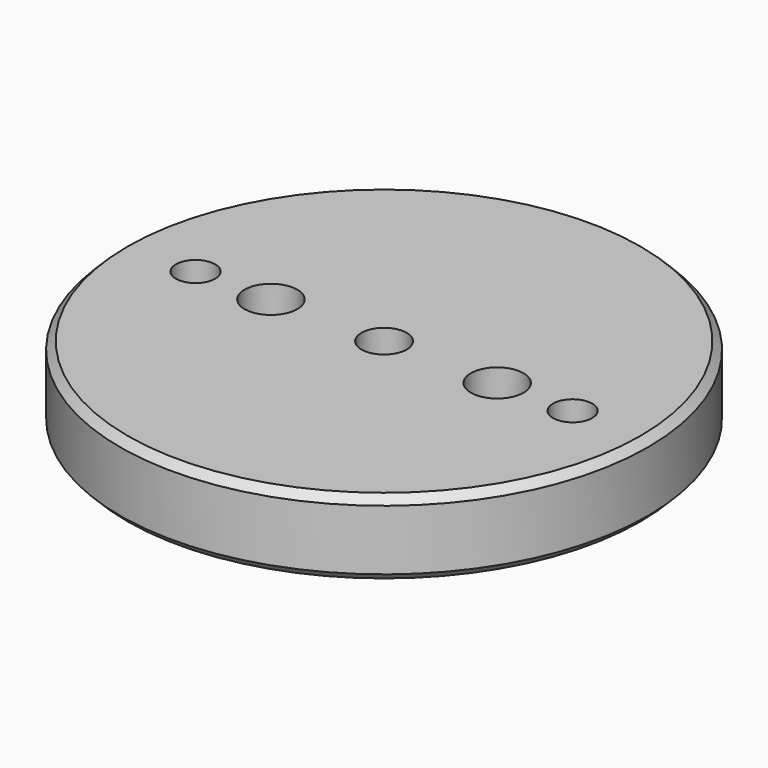
from build123d import *

# Parameters (mm, degrees)
CYLINDER001_R        = 3.5
CYLINDER001_DEPTH    = 10
CYLINDER002_R        = 7
CYLINDER002_DEPTH    = 5
CYLINDER003_R        = 3.5
CYLINDER003_DEPTH    = 10
CYLINDER004_R        = 7
CYLINDER004_DEPTH    = 5
CYLINDER005_R        = 2.6
CYLINDER005_DEPTH    = 10
CYLINDER006_R        = 2.6
CYLINDER006_DEPTH    = 10
CYLINDER_R           = 3
CYLINDER_DEPTH       = 10
CYLINDER001027_R     = 35
CYLINDER001027_DEPTH = 10
CHAMFER004_SIZE      = 1


with BuildPart() as cylinder001:
    # cylinder001 → cylinder001 (new body)
    with BuildSketch(Plane(origin=(15, 0, 0), x_dir=(1, 0, 0), z_dir=(0, 0, 1))):
        Circle(CYLINDER001_R)
    extrude(amount=CYLINDER001_DEPTH)


with BuildPart() as cylinder002:
    # cylinder002 → cylinder002 (new body)
    with BuildSketch(Plane(origin=(15, 0, 0), x_dir=(1, 0, 0), z_dir=(0, 0, 1))):
        Circle(CYLINDER002_R)
    extrude(amount=CYLINDER002_DEPTH)


with BuildPart() as cylinder003:
    # cylinder003 → cylinder003 (new body)
    with BuildSketch(Plane(origin=(-15, 0, 0), x_dir=(1, 0, 0), z_dir=(0, 0, 1))):
        Circle(CYLINDER003_R)
    extrude(amount=CYLINDER003_DEPTH)


with BuildPart() as cylinder004:
    # cylinder004 → cylinder004 (new body)
    with BuildSketch(Plane(origin=(-15, 0, 0), x_dir=(1, 0, 0), z_dir=(0, 0, 1))):
        Circle(CYLINDER004_R)
    extrude(amount=CYLINDER004_DEPTH)


with BuildPart() as cylinder005:
    # cylinder005 → cylinder005 (new body)
    with BuildSketch(Plane(origin=(-25, 0, 0), x_dir=(1, 0, 0), z_dir=(0, 0, 1))):
        Circle(CYLINDER005_R)
    extrude(amount=CYLINDER005_DEPTH)


with BuildPart() as cylinder006:
    # cylinder006 → cylinder006 (new body)
    with BuildSketch(Plane(origin=(25, 0, 0), x_dir=(1, 0, 0), z_dir=(0, 0, 1))):
        Circle(CYLINDER006_R)
    extrude(amount=CYLINDER006_DEPTH)


with BuildPart() as union:
    # cylinder → cylinder (new body)
    with BuildSketch(Plane.XY):
        Circle(CYLINDER_R)
    extrude(amount=CYLINDER_DEPTH)

    # union: union cylinder001, cylinder002, cylinder003, cylinder004, cylinder005, cylinder006
    add(cylinder001.part)
    add(cylinder002.part)
    add(cylinder003.part)
    add(cylinder004.part)
    add(cylinder005.part)
    add(cylinder006.part)


with BuildPart() as obj1:
    # Cylinder001027 → Cylinder001027 (new body)
    with BuildSketch(Plane.XY):
        Circle(CYLINDER001027_R)
    extrude(amount=CYLINDER001027_DEPTH)

    # Cut004: cut union
    add(union.part, mode=Mode.SUBTRACT)


with BuildPart() as obj1_1:
    # Cut004 placement: moved
    add(obj1.part.moved(Location((0, 0, 10))))

    # Chamfer004
    chamfer004_edges = [obj1_1.edges().sort_by_distance(p)[0] for p in [
        (-35, 0, 20),
        (-35, 0, 10),
    ]]
    chamfer(chamfer004_edges, length=CHAMFER004_SIZE)


solid = obj1_1.part
